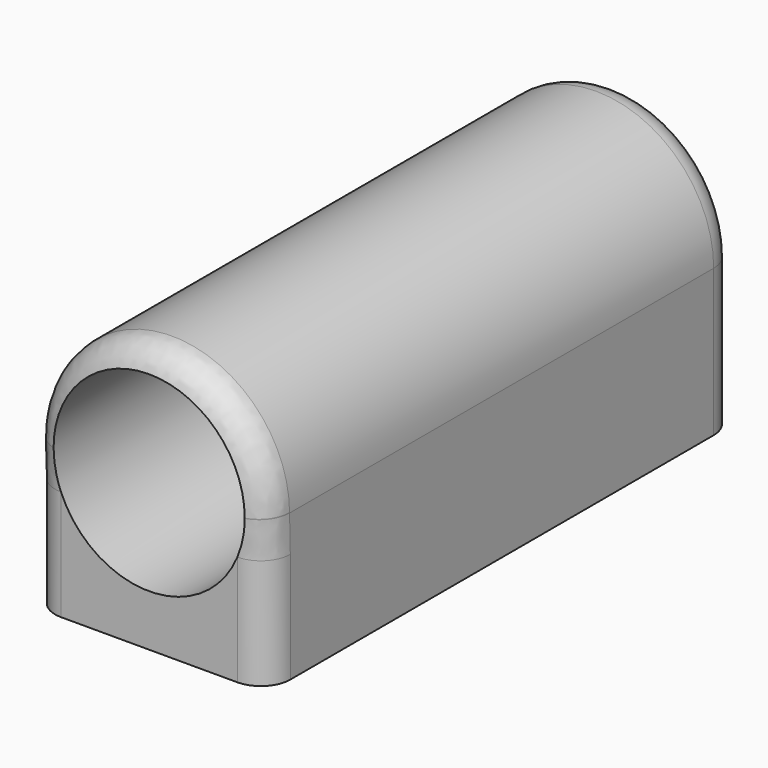
from build123d import *

# Parameters (mm, degrees)
F0_R     = 4
F1_DEPTH = 40
F2_R     = 6.5
F2_R_2   = 4
F3_DEPTH = 25
F4_R     = 2


with BuildPart() as f1:
    # F0 (on Front) → F1 (new body)
    with BuildSketch(Plane.XZ):
        with BuildLine():
            ThreePointArc((-8, 0), (0, -8), (8, 0))
            ThreePointArc((8, 0), (0, 8), (-8, 0))
        make_face()
        Circle(F0_R, mode=Mode.SUBTRACT)
        with BuildLine():
            Line((8, -10), (8, 0))
            ThreePointArc((8, 0), (0, -8), (-8, 0))
            Line((-8, 0), (-8, -10))
            Line((-8, -10), (8, -10))
        make_face()
    extrude(amount=F1_DEPTH)

    # F2 (on face) → F3 (cut)
    with BuildSketch(Plane.XZ.offset(40)):
        Circle(F2_R)
        Circle(F2_R_2, mode=Mode.SUBTRACT)
    extrude(amount=-F3_DEPTH, mode=Mode.SUBTRACT)

    # F4
    f4_edges = [f1.edges().sort_by_distance(p)[0] for p in [
        (0, -40, 8),
        (0, 0, 8),
    ]]
    fillet(f4_edges, radius=F4_R)


solid = f1.part
